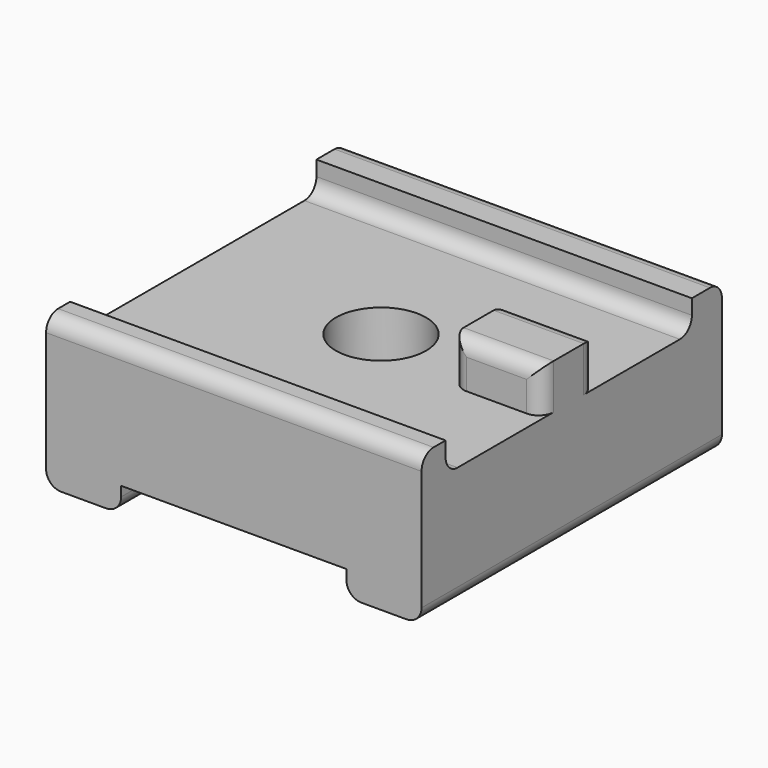
from build123d import *

# Parameters (mm, degrees)
F1_DEPTH = 25
F2_W     = 20.5
F2_H     = 2
F3_DEPTH = 25
F4_R     = 3
F5_DEPTH = 25
F4_W     = 6
F4_H     = 4.5
F6_DEPTH = 3
F7_R     = 1
F8_R     = 1
F9_SIZE  = 2


with BuildPart() as f1:
    # F0 (on Front) → F1 (new body)
    with BuildSketch(Plane.XZ):
        Polygon((14.836072953, 10), (-10.163927047, 10), (-10.163927047, 0), (-5.163927047, 0), (-5.163927047, 1.6477254958), (9.836072953, 1.6477254958), (9.836072953, 0), (14.836072953, 0), align=None)
    extrude(amount=F1_DEPTH)

    # F2 (on face) → F3 (cut)
    with BuildSketch(Plane(origin=(-10.163927047, 0, 0), x_dir=(0, -1, 0), z_dir=(-1, 0, 0))):
        with Locations((12.75, 9)):
            Rectangle(F2_W, F2_H)
    extrude(amount=-F3_DEPTH, mode=Mode.SUBTRACT)

    # F4 (on face) → F5 (cut)
    with BuildSketch(Plane.XY.offset(8)):
        with Locations((2.336072953, -12.75)):
            Circle(F4_R)
    extrude(amount=-F5_DEPTH, mode=Mode.SUBTRACT)

    # F4 (on face) → F6 (join)
    with BuildSketch(Plane.XY.offset(8)):
        with Locations((11.836072953, -12.75)):
            Rectangle(F4_W, F4_H)
    extrude(amount=F6_DEPTH)

    # F7
    f7_edges = [f1.edges().sort_by_distance(p)[0] for p in [
        (11.836073, -10.5, 11),
        (11.836073, -15, 11),
        (8.836073, -10.5, 9.5),
        (8.836073, -15, 9.5),
        (14.836073, -10.5, 9.5),
        (14.836073, -15, 9.5),
    ]]
    fillet(f7_edges, radius=F7_R)

    # F8
    f8_edges = [f1.edges().sort_by_distance(p)[0] for p in [
        (2.336073, -23, 8),
        (2.336073, -2.5, 8),
        (2.336073, -25, 10),
        (2.336073, 0, 10),
        (-10.163927, -12.5, 0),
        (-5.163927, -12.5, 0),
        (9.836073, -12.5, 0),
        (14.836073, -12.5, 0),
    ]]
    fillet(f8_edges, radius=F8_R)

    # F9
    f9_edges = [f1.edges().sort_by_distance(p)[0] for p in [
        (-0.663927, -12.75, 1.647725),
    ]]
    chamfer(f9_edges, length=F9_SIZE)


solid = f1.part
